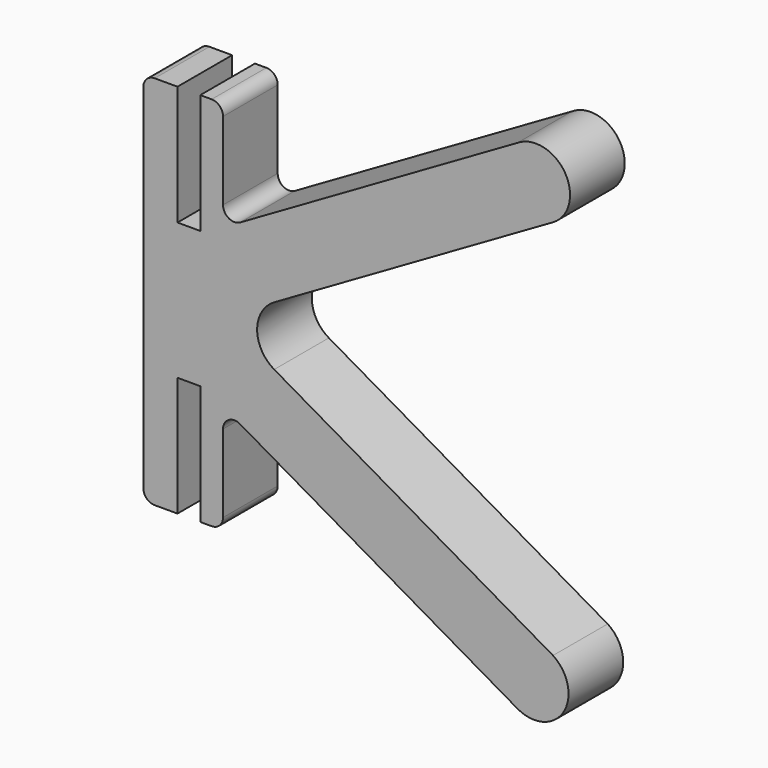
from build123d import *

# Parameters (mm, degrees)
F1_DEPTH       = 6
F3_D           = 2.286
F3_DEPTH       = 3.302
F3_CSINK_D     = 4.191
F3_CSINK_ANGLE = 131
F3_TIP         = 0.6867836875
F4_D           = 2.286
F4_DEPTH       = 3.302
F4_CSINK_D     = 4.191
F4_CSINK_ANGLE = 131
F4_TIP         = 0.6867836875
F6_D           = 2.286
F6_DEPTH       = 31.75
F6_TIP         = 0.6867836875
F8_D           = 2.286
F8_DEPTH       = 31.75
F8_TIP         = 0.6867836875
F9_DEPTH       = 6


with BuildPart() as f1:
    # F0 (on Front) → F1 (new body)
    with BuildSketch(Plane.XZ):
        with BuildLine():
            Line((1, 16.5), (1, 6))
            Line((1, 6), (1, 0))
            Line((1, 0), (1, -6))
            Line((1, -6), (1, -16.5))
            Line((1, -16.5), (2, -16.5))
            ThreePointArc((2, -16.5), (2.7071067812, -16.2071067812), (3, -15.5))
            Line((3, -15.5), (3, -8.6602540378))
            ThreePointArc((3, -8.6602540378), (3.5001799931, -7.7941247399), (4.5003599214, -7.7944365345))
            Line((4.5003599214, -7.7944365345), (28.8345806574, -21.8572947335))
            Line((28.8345806574, -21.8572947335), (31.9750532508, -16.7448166758))
            Line((31.9750532508, -16.7448166758), (7.4946042855, -2.5974525099))
            ThreePointArc((7.4946042855, -2.5974525099), (5.9956840498, 0), (7.4946042855, 2.5974525099))
            Line((7.4946042855, 2.5974525099), (31.9750532508, 16.7448166758))
            Line((31.9750532508, 16.7448166758), (28.8345806574, 21.8572947335))
            Line((28.8345806574, 21.8572947335), (4.5003599214, 7.7944365345))
            ThreePointArc((4.5003599214, 7.7944365345), (3.5001799931, 7.7941247399), (3, 8.6602540378))
            Line((3, 8.6602540378), (3, 15.5))
            ThreePointArc((3, 15.5), (2.7071067812, 16.2071067812), (2, 16.5))
            Line((2, 16.5), (1, 16.5))
        make_face()
        with BuildLine():
            Line((-1, -6), (-1, 6))
            Line((-1, 6), (-1, 16.5))
            Line((-1, 16.5), (-3, 16.5))
            ThreePointArc((-3, 16.5), (-3.7071067812, 16.2071067812), (-4, 15.5))
            Line((-4, 15.5), (-4, -15.5))
            ThreePointArc((-4, -15.5), (-3.7071067812, -16.2071067812), (-3, -16.5))
            Line((-3, -16.5), (-1, -16.5))
            Line((-1, -16.5), (-1, -6))
        make_face()
        Polygon((1, 0), (1, 6), (-1, 6), (-1, -6), (1, -6), align=None)
    extrude(amount=F1_DEPTH)

    # F3
    with Locations(Plane(origin=(0, 0, 0), x_dir=(1, 0, 0), z_dir=(0, 1, 0))):
        with Locations((3, 3.4633801802)):
            CounterSinkHole(F3_D / 2, F3_CSINK_D / 2, depth=F3_DEPTH, counter_sink_angle=F3_CSINK_ANGLE)
            with Locations((0, 0, -(F3_DEPTH + F3_TIP / 2))):  # 118° drill point
                Cone(0, F3_D / 2, F3_TIP, mode=Mode.SUBTRACT)

    # F4
    with Locations(Plane(origin=(0, 0, 0), x_dir=(1, 0, 0), z_dir=(0, 1, 0))):
        with Locations((3, -3.4689440442)):
            CounterSinkHole(F4_D / 2, F4_CSINK_D / 2, depth=F4_DEPTH, counter_sink_angle=F4_CSINK_ANGLE)
            with Locations((0, 0, -(F4_DEPTH + F4_TIP / 2))):  # 118° drill point
                Cone(0, F4_D / 2, F4_TIP, mode=Mode.SUBTRACT)

    # F6
    with Locations(Plane(origin=(30.6831613521, 0, 18.8479297546), x_dir=(0, 1, 0), z_dir=(0.8520796763, 0, 0.5234120989))):
        with Locations((-3, 0.5317882384)):
            Hole(F6_D / 2, depth=F6_DEPTH)
            with Locations((0, 0, -(F6_DEPTH + F6_TIP / 2))):  # 118° drill point
                Cone(0, F6_D / 2, F6_TIP, mode=Mode.SUBTRACT)

    # F8
    with Locations(Plane(origin=(30.6831613521, 0, -18.8479297546), x_dir=(0, 1, 0), z_dir=(0.8520796763, 0, -0.5234120989))):
        with Locations((-3, -0.5317882384)):
            Hole(F8_D / 2, depth=F8_DEPTH)
            with Locations((0, 0, -(F8_DEPTH + F8_TIP / 2))):  # 118° drill point
                Cone(0, F8_D / 2, F8_TIP, mode=Mode.SUBTRACT)

    # F0 (on Front) → F9 (join)
    with BuildSketch(Plane.XZ):
        with BuildLine():
            ThreePointArc((31.9750532508, 16.7448166758), (33.0305925786, 20.9140066634), (28.8345806574, 21.8572947335))
            Line((28.8345806574, 21.8572947335), (31.9750532508, 16.7448166758))
        make_face()
        with BuildLine():
            Line((31.9750532508, -16.7448166758), (28.8345806574, -21.8572947335))
            ThreePointArc((28.8345806574, -21.8572947335), (32.8933608768, -20.829708522), (31.9750532508, -16.7448166758))
        make_face()
    extrude(amount=F9_DEPTH)


solid = f1.part
